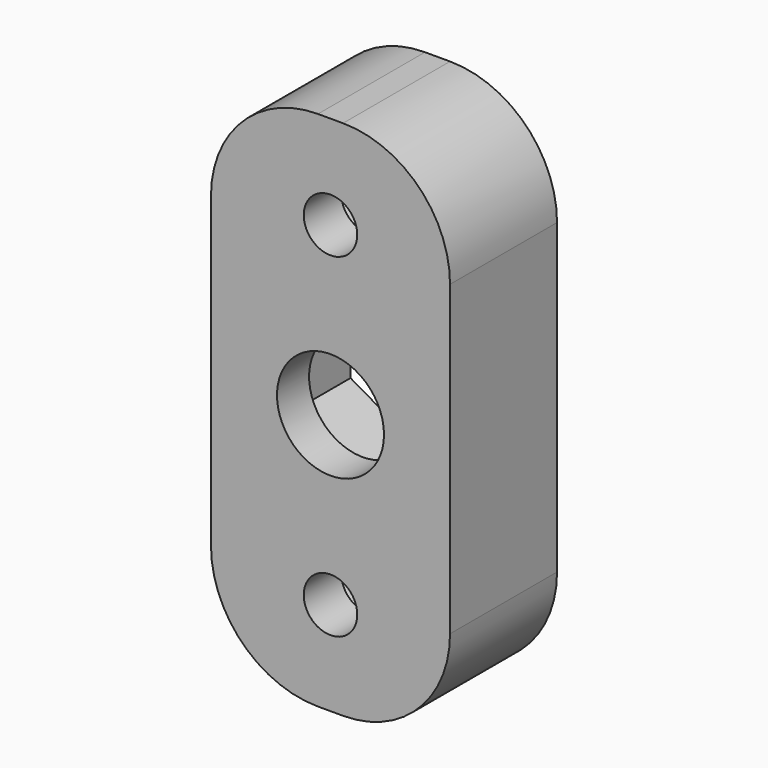
from build123d import *

# Parameters (mm, degrees)
F0_W     = 17.873502
F0_H     = 39
F0_R     = 2
F1_DEPTH = 7
F2_W     = 17.873502
F2_H     = 39
F2_R     = 2
F2_R_2   = 4
F3_DEPTH = 3
F6_DEPTH = 1.5
F7_R     = 8


with BuildPart() as f1:
    # F0 (on Front) → F1 (new body)
    with BuildSketch(Plane.XZ):
        Rectangle(F0_W, F0_H)
        with Locations((0, -12.5)):
            Circle(F0_R, mode=Mode.SUBTRACT)
        Polygon((0, 7.505553), (6.5, 3.752777), (6.5, -3.752777), (0, -7.505553), (-6.5, -3.752777), (-6.5, 3.752777), align=None, mode=Mode.SUBTRACT)
        with Locations((0, 12.5)):
            Circle(F0_R, mode=Mode.SUBTRACT)
    extrude(amount=F1_DEPTH)

    # F2 (on face) → F3 (join)
    with BuildSketch(Plane.XZ.offset(7)):
        Rectangle(F2_W, F2_H)
        with Locations((0, -12.5)):
            Circle(F2_R, mode=Mode.SUBTRACT)
        Polygon((-6.5, -3.752777), (-6.5, 3.752777), (0, 7.505553), (6.5, 3.752777), (6.5, -3.752777), (0, -7.505553), align=None, mode=Mode.SUBTRACT)
        with Locations((0, 12.5)):
            Circle(F2_R, mode=Mode.SUBTRACT)
        Polygon((0, 7.505553), (-6.5, 3.752777), (-6.5, -3.752777), (0, -7.505553), (6.5, -3.752777), (6.5, 3.752777), align=None)
        Circle(F2_R_2, mode=Mode.SUBTRACT)
    extrude(amount=F3_DEPTH)

    # F5 (on offset) → F6 (cut, symmetric)
    with BuildSketch(Plane(origin=(0, -5, 0), x_dir=(1, 0, 0), z_dir=(0, 1, 0))):
        Polygon((3.6, -14.578461), (3.6, -10.421539), (0, -8.343078), (-3.6, -10.421539), (-3.6, -14.578461), (0, -16.656922), align=None)
        Polygon((3.6, 10.421539), (3.6, 14.578461), (0, 16.656922), (-3.6, 14.578461), (-3.6, 10.421539), (0, 8.343078), align=None)
    extrude(amount=F6_DEPTH, both=True, mode=Mode.SUBTRACT)

    # F7
    f7_edges = [f1.edges().sort_by_distance(p)[0] for p in [
        (-8.936751, -5, -19.5),
        (8.936751, -5, -19.5),
        (-8.936751, -5, 19.5),
        (8.936751, -5, 19.5),
    ]]
    fillet(f7_edges, radius=F7_R)


solid = f1.part
